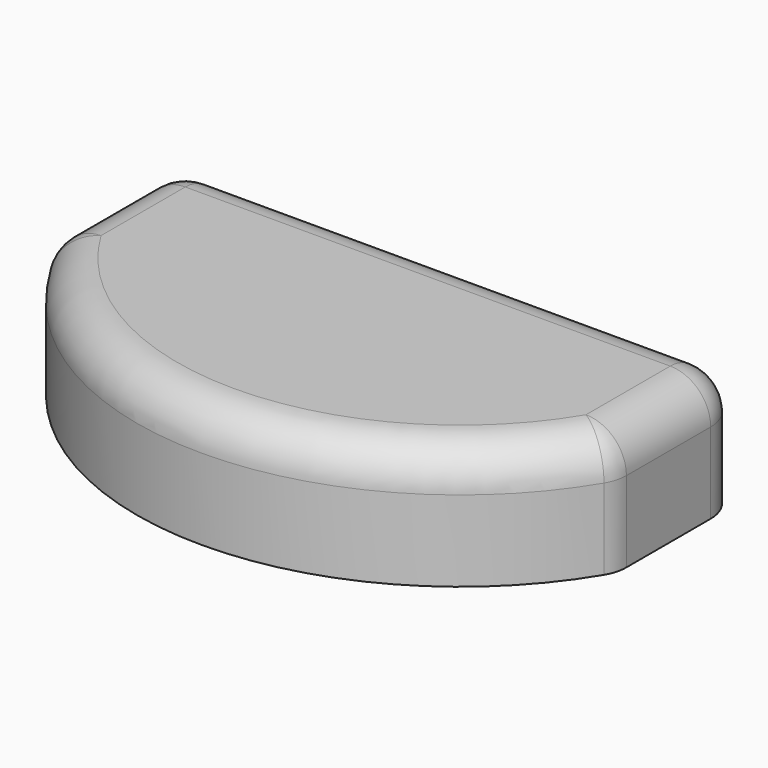
from build123d import *

# Parameters (mm, degrees)
F1_DEPTH = 3
F2_R     = 1


with BuildPart() as f1:
    # F0 (on Top) → F1 (new body)
    with BuildSketch(Plane.XY):
        with BuildLine():
            Line((-7, 0), (-7, -3.872983))
            ThreePointArc((-7, -3.872983), (0, -8), (7, -3.872983))
            Line((7, -3.872983), (7, 0))
            Line((7, 0), (0, 0))
            Line((0, 0), (-7, 0))
        make_face()
    extrude(amount=F1_DEPTH)

    # F2
    f2_edges = [f1.edges().sort_by_distance(p)[0] for p in [
        (-7, -1.936492, 3),
        (0, 0, 3),
        (7, -1.936492, 3),
        (0, -8, 3),
        (-7, -3.872983, 1.5),
        (-7, 0, 1.5),
        (7, -3.872983, 1.5),
        (7, 0, 1.5),
    ]]
    fillet(f2_edges, radius=F2_R)


solid = f1.part
